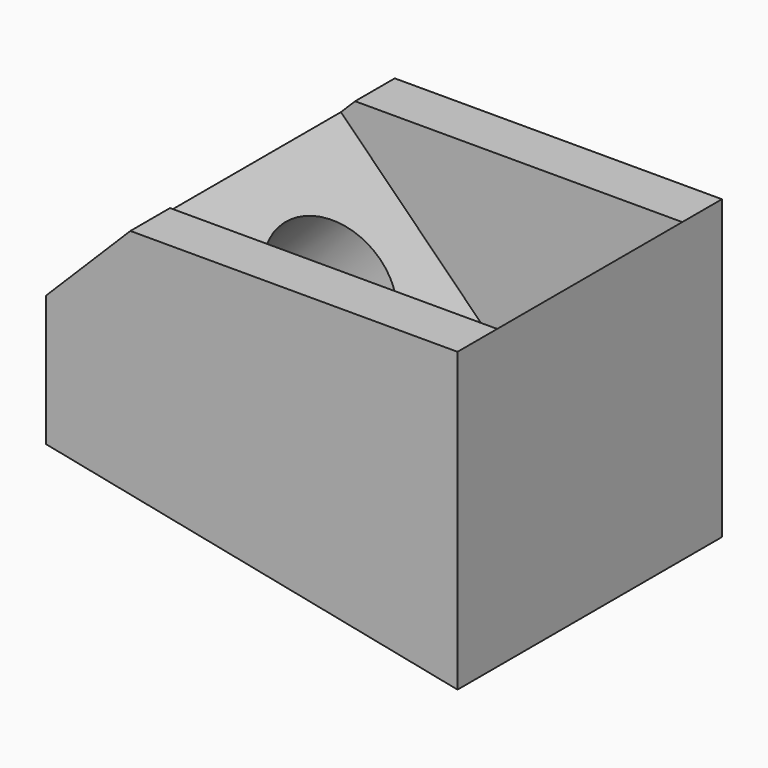
from build123d import *

# Parameters (mm, degrees)
SKETCH008_W             = 14
SKETCH008_H             = 14
SKETCH008_R             = 3.8
PAD007_DEPTH            = 6
PAD008_DEPTH            = 14
PAD009_DEPTH            = 3
PAD010_DEPTH            = 3
BODY002_PLACEMENT_ANGLE = 315


with BuildPart() as part:
    # Sketch008 → Pad007 (new body)
    with BuildSketch(Plane.YZ):
        with Locations((-12, 7)):
            Rectangle(SKETCH008_W, SKETCH008_H)
        with Locations((-12, 7)):
            Circle(SKETCH008_R, mode=Mode.SUBTRACT)
    extrude(amount=PAD007_DEPTH)

    # Sketch009 → Pad008 (join)
    with BuildSketch(Plane.XZ.offset(5)):
        Polygon((0, 0), (21.213203, 0), (8.485281, -12.727922), align=None)
    extrude(amount=PAD008_DEPTH)

    # Sketch010 → Pad009 (join)
    with BuildSketch(Plane.XZ.offset(5)):
        Polygon((0, 14), (7.213203, 14), (21.213203, 0), (8.485281, -12.727922), (-5.6, 8.4), align=None)
    extrude(amount=-PAD009_DEPTH)

    # Sketch011 → Pad010 (join)
    with BuildSketch(Plane.XZ.offset(19)):
        Polygon((0, 14), (7.213203, 14), (21.213203, 0), (8.485281, -12.727922), (-5.6, 8.4), align=None)
    extrude(amount=PAD010_DEPTH)


with BuildPart() as part_1:
    # Body002 placement: moved
    add(part.part.moved(Location((-17, 22, -15))).rotate(Axis((-17, 22, -15), (0, 1, 0)), BODY002_PLACEMENT_ANGLE))


solid = part_1.part
